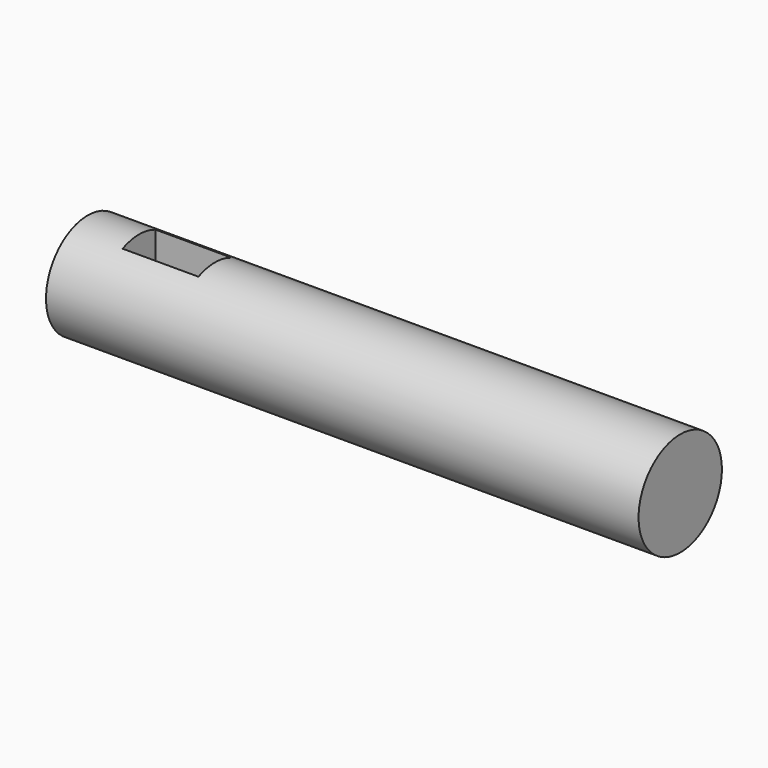
from build123d import *

# Parameters (mm, degrees)
F0_R     = 33.48863
F1_DEPTH = 190.5
F2_W     = 48.776075
F2_H     = 26.50877
F3_DEPTH = 63.5


with BuildPart() as f1:
    # F0 (on Right) → F1 (new body, symmetric)
    with BuildSketch(Plane.YZ):
        Circle(F0_R)
    extrude(amount=F1_DEPTH, both=True)

    # F2 (on Top) → F3 (cut, symmetric)
    with BuildSketch(Plane.XY):
        with Locations((-133.073867, 0)):
            Rectangle(F2_W, F2_H)
    extrude(amount=F3_DEPTH, both=True, mode=Mode.SUBTRACT)


solid = f1.part
